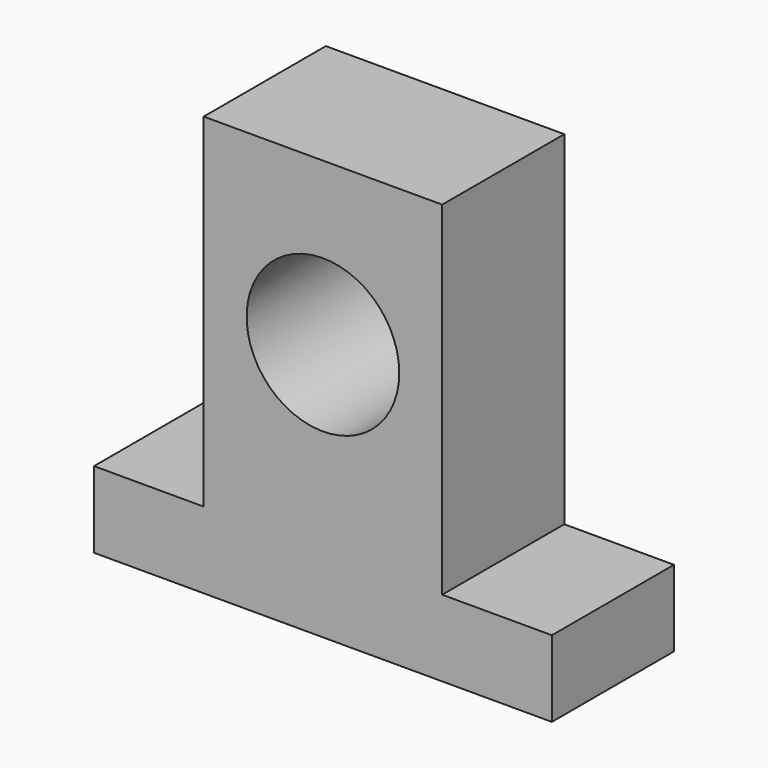
from build123d import *

# Parameters (mm, degrees)
F0_W     = 25
F0_H     = 36
F0_R     = 8
F1_DEPTH = 16


with BuildPart() as f1:
    # F0 (on Front) → F1 (new body)
    with BuildSketch(Plane.XZ):
        Polygon((12.5, 8), (-12.5, 8), (-24, 8), (-24, 0), (24, 0), (24, 8), align=None)
        with Locations((0, 26)):
            Rectangle(F0_W, F0_H)
        with Locations((0, 27)):
            Circle(F0_R, mode=Mode.SUBTRACT)
    extrude(amount=F1_DEPTH)


solid = f1.part
